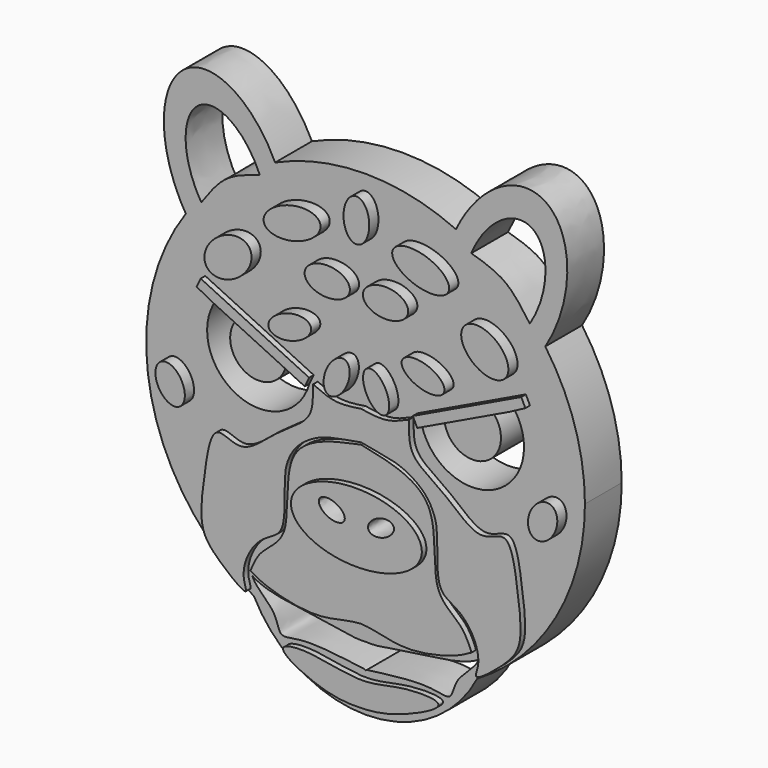
from build123d import *

# Parameters (mm, degrees)
F1_DEPTH  = 8
F4_DEPTH  = 2
F5_DEPTH  = 25.4
F7_DEPTH  = 1
F9_DEPTH  = 25.4
F11_DEPTH = 1
F13_DEPTH = 1


with BuildPart() as f1:
    # F0 (on Front) → F1 (new body)
    with BuildSketch(Plane.XZ):
        with BuildLine():
            ThreePointArc((19.4302331656, -32.8815989196), (33.1725759623, -18.929176221), (38.1933699532, 0))
            ThreePointArc((38.1933699532, 0), (36.4277464928, 11.4783619841), (31.2941204762, 21.8954682984))
            ThreePointArc((31.2941204762, 21.8954682984), (24.3865251617, 29.39440251), (15.7411537956, 34.7987009178))
            ThreePointArc((15.7411537956, 34.7987009178), (0, 38.1933699532), (-15.7411537956, 34.7987009178))
            ThreePointArc((-15.7411537956, 34.7987009178), (-24.3865251617, 29.39440251), (-31.2941204762, 21.8954682984))
            ThreePointArc((-31.2941204762, 21.8954682984), (-37.3278955521, -8.0846596735), (-19.4302331656, -32.8815989196))
            ThreePointArc((-19.4302331656, -32.8815989196), (0, -38.1933699532), (19.4302331656, -32.8815989196))
        make_face()
        with BuildLine():
            ThreePointArc((15.7411537956, 34.7987009178), (24.3865251617, 29.39440251), (31.2941204762, 21.8954682984))
            add(Edge.make_bspline(
                [(31.2941204762, 21.8954682984), (40.3605239397, 36.6317380546), (31.850195279, 43.692175631), (23.3398666184, 50.7526132074), (15.7411537956, 34.7987009178)],
                knots=[4.4330643288, 4.4330643288, 4.4330643288, 6.0901978392, 6.0901978392, 7.7473313495, 7.7473313495, 7.7473313495], degree=2, weights=[1, 0.6759327029, 1, 0.6759327029, 1]))
        make_face()
        with BuildLine():
            ThreePointArc((-19.4302331656, -32.8815989196), (0, -44.7301043372), (19.4302331656, -32.8815989196))
            ThreePointArc((19.4302331656, -32.8815989196), (0, -38.1933699532), (-19.4302331656, -32.8815989196))
        make_face()
        with BuildLine():
            ThreePointArc((-31.2941204762, 21.8954682984), (-24.3865251617, 29.39440251), (-15.7411537956, 34.7987009178))
            add(Edge.make_bspline(
                [(-15.7411537956, 34.7987009178), (-23.3398666184, 50.7526132074), (-31.850195279, 43.692175631), (-40.3605239397, 36.6317380546), (-31.2941204762, 21.8954682984)],
                knots=[4.8190392648, 4.8190392648, 4.8190392648, 6.4761727752, 6.4761727752, 8.1333062855, 8.1333062855, 8.1333062855], degree=2, weights=[1, 0.6759327029, 1, 0.6759327029, 1]))
        make_face()
    extrude(amount=F1_DEPTH)

    # F3 (on face) → F4 (join)
    with BuildSketch(Plane.XZ.offset(8)):
        with BuildLine():
            add(Edge.make_bspline(
                [(-6.2969359569, 29.2812623084), (-7.6255973602, 33.6296094329), (-14.3097768624, 29.2100581214), (-20.9939563647, 24.7905068099), (-12.9811154592, 24.8617109969), (-4.9682745537, 24.9329151838), (-6.2969359569, 29.2812623084)],
                knots=[0, 0, 0, 2.0943951024, 2.0943951024, 4.1887902048, 4.1887902048, 6.2831853072, 6.2831853072, 6.2831853072], degree=2, weights=[1, 0.5, 1, 0.5, 1, 0.5, 1]))
        make_face()
        with BuildLine():
            add(Edge.make_bspline(
                [(-9.0186065063, 20.844085142), (-9.0186065063, 16.5785358451), (-3.0989733059, 18.7113104936), (2.8206598945, 20.844085142), (-3.0989733059, 22.9768597905), (-9.0186065063, 25.1096344389), (-9.0186065063, 20.844085142)],
                knots=[0, 0, 0, 2.0943951024, 2.0943951024, 4.1887902048, 4.1887902048, 6.2831853072, 6.2831853072, 6.2831853072], degree=2, weights=[1, 0.5, 1, 0.5, 1, 0.5, 1]))
        make_face()
        with BuildLine():
            add(Edge.make_bspline(
                [(-18.6805371195, 21.6605849564), (-21.8546852465, 25.945685471), (-25.7789919151, 19.7206314851), (-29.7032985836, 13.4955774993), (-22.604843788, 15.4355309706), (-15.5063889925, 17.3754844418), (-18.6805371195, 21.6605849564)],
                knots=[0, 0, 0, 2.0943951024, 2.0943951024, 4.1887902048, 4.1887902048, 6.2831853072, 6.2831853072, 6.2831853072], degree=2, weights=[1, 0.5, 1, 0.5, 1, 0.5, 1]))
        make_face()
        with BuildLine():
            add(Edge.make_bspline(
                [(-7.929937914, 12.9512418061), (-9.036532859, 16.2710241167), (-13.9946175156, 12.7740041881), (-18.9527021721, 9.2769842595), (-12.8880225706, 9.4542218775), (-6.823342969, 9.6314594956), (-7.929937914, 12.9512418061)],
                knots=[0, 0, 0, 2.0943951024, 2.0943951024, 4.1887902048, 4.1887902048, 6.2831853072, 6.2831853072, 6.2831853072], degree=2, weights=[1, 0.5, 1, 0.5, 1, 0.5, 1]))
        make_face()
        with BuildLine():
            add(Edge.make_bspline(
                [(-1.9422633341, 9.8213199526), (-4.9083641623, 11.239890053), (-5.6706920213, 5.8357236195), (-6.4330198802, 0.4315571859), (-2.704591193, 4.4171535191), (1.0238374942, 8.4027498522), (-1.9422633341, 9.8213199526)],
                knots=[0, 0, 0, 2.0943951024, 2.0943951024, 4.1887902048, 4.1887902048, 6.2831853072, 6.2831853072, 6.2831853072], degree=2, weights=[1, 0.5, 1, 0.5, 1, 0.5, 1]))
        make_face()
        with BuildLine():
            add(Edge.make_bspline(
                [(0, 28.1925909221), (3.881293028, 28.1925909221), (1.940646514, 33.7039772421), (0, 39.2153635621), (-1.940646514, 33.7039772421), (-3.881293028, 28.1925909221), (0, 28.1925909221)],
                knots=[0, 0, 0, 2.0943951024, 2.0943951024, 4.1887902048, 4.1887902048, 6.2831853072, 6.2831853072, 6.2831853072], degree=2, weights=[1, 0.5, 1, 0.5, 1, 0.5, 1]))
        make_face()
        with BuildLine():
            add(Edge.make_bspline(
                [(-33.9218862355, -0.7931939908), (-37.514096548, -2.5892944328), (-33.4726192305, -6.1820003214), (-29.4311419129, -9.77470621), (-29.8804089179, -4.3858998794), (-30.3296759229, 1.0029064511), (-33.9218862355, -0.7931939908)],
                knots=[0, 0, 0, 2.0943951024, 2.0943951024, 4.1887902048, 4.1887902048, 6.2831853072, 6.2831853072, 6.2831853072], degree=2, weights=[1, 0.5, 1, 0.5, 1, 0.5, 1]))
        make_face()
        with BuildLine():
            add(Edge.make_bspline(
                [(11.3939205185, -15.2180464938), (11.3939205185, -4.7916943501), (-5.6969602592, -10.004870422), (-22.7878410369, -15.2180464938), (-5.6969602592, -20.4312225657), (11.3939205185, -25.6443986375), (11.3939205185, -15.2180464938)],
                knots=[0, 0, 0, 2.0943951024, 2.0943951024, 4.1887902048, 4.1887902048, 6.2831853072, 6.2831853072, 6.2831853072], degree=2, weights=[1, 0.5, 1, 0.5, 1, 0.5, 1]))
        make_face()
        with BuildLine():
            add(Edge.make_bspline(
                [(1.9422633341, 9.8213199526), (-1.0238374942, 8.4027498522), (2.704591193, 4.4171535191), (6.4330198802, 0.4315571859), (5.6706920213, 5.8357236195), (4.9083641623, 11.239890053), (1.9422633341, 9.8213199526)],
                knots=[0, 0, 0, 2.0943951024, 2.0943951024, 4.1887902048, 4.1887902048, 6.2831853072, 6.2831853072, 6.2831853072], degree=2, weights=[1, 0.5, 1, 0.5, 1, 0.5, 1]))
        make_face()
        with BuildLine():
            add(Edge.make_bspline(
                [(7.929937914, 12.9512418061), (6.823342969, 9.6314594956), (12.8880225706, 9.4542218775), (18.9527021721, 9.2769842595), (13.9946175156, 12.7740041881), (9.036532859, 16.2710241167), (7.929937914, 12.9512418061)],
                knots=[0, 0, 0, 2.0943951024, 2.0943951024, 4.1887902048, 4.1887902048, 6.2831853072, 6.2831853072, 6.2831853072], degree=2, weights=[1, 0.5, 1, 0.5, 1, 0.5, 1]))
        make_face()
        with BuildLine():
            add(Edge.make_bspline(
                [(18.6805371195, 21.6605849564), (15.5063889925, 17.3754844418), (22.604843788, 15.4355309706), (29.7032985836, 13.4955774993), (25.7789919151, 19.7206314851), (21.8546852465, 25.945685471), (18.6805371195, 21.6605849564)],
                knots=[0, 0, 0, 2.0943951024, 2.0943951024, 4.1887902048, 4.1887902048, 6.2831853072, 6.2831853072, 6.2831853072], degree=2, weights=[1, 0.5, 1, 0.5, 1, 0.5, 1]))
        make_face()
        with BuildLine():
            add(Edge.make_bspline(
                [(6.2969359569, 29.2812623084), (4.9682745537, 24.9329151838), (12.9811154592, 24.8617109969), (20.9939563647, 24.7905068099), (14.3097768624, 29.2100581214), (7.6255973602, 33.6296094329), (6.2969359569, 29.2812623084)],
                knots=[0, 0, 0, 2.0943951024, 2.0943951024, 4.1887902048, 4.1887902048, 6.2831853072, 6.2831853072, 6.2831853072], degree=2, weights=[1, 0.5, 1, 0.5, 1, 0.5, 1]))
        make_face()
        with BuildLine():
            add(Edge.make_bspline(
                [(9.0186065063, 20.844085142), (9.0186065063, 25.1096344389), (3.0989733059, 22.9768597905), (-2.8206598945, 20.844085142), (3.0989733059, 18.7113104936), (9.0186065063, 16.5785358451), (9.0186065063, 20.844085142)],
                knots=[0, 0, 0, 2.0943951024, 2.0943951024, 4.1887902048, 4.1887902048, 6.2831853072, 6.2831853072, 6.2831853072], degree=2, weights=[1, 0.5, 1, 0.5, 1, 0.5, 1]))
        make_face()
        with BuildLine():
            add(Edge.make_bspline(
                [(33.9218862355, -0.7931939908), (30.3296759229, 1.0029064511), (29.8804089179, -4.3858998794), (29.4311419129, -9.77470621), (33.4726192305, -6.1820003214), (37.514096548, -2.5892944328), (33.9218862355, -0.7931939908)],
                knots=[0, 0, 0, 2.0943951024, 2.0943951024, 4.1887902048, 4.1887902048, 6.2831853072, 6.2831853072, 6.2831853072], degree=2, weights=[1, 0.5, 1, 0.5, 1, 0.5, 1]))
        make_face()
    extrude(amount=F4_DEPTH)

    # F2 (on face) → F5 (cut)
    with BuildSketch(Plane.XZ.offset(8)):
        with BuildLine():
            ThreePointArc((-25.8884229802, 10.5301473967), (-22.4417922533, -2.9278959576), (-9.7933178667, 2.8179103381))
            Line((-9.7933178667, 2.8179103381), (-13.758715219, 4.7179963703))
            ThreePointArc((-13.758715219, 4.7179963703), (-20.7754875289, 0.9199741997), (-22.2116822744, 8.7683759932))
            Line((-22.2116822744, 8.7683759932), (-25.8884229802, 10.5301473967))
        make_face()
        with BuildLine():
            Line((13.758715219, 4.7179963703), (9.7933178667, 2.8179103381))
            ThreePointArc((9.7933178667, 2.8179103381), (22.4417922533, -2.9278959576), (25.8884229802, 10.5301473967))
            Line((25.8884229802, 10.5301473967), (22.2116822744, 8.7683759932))
            ThreePointArc((22.2116822744, 8.7683759932), (20.7754875289, 0.9199741997), (13.758715219, 4.7179963703))
        make_face()
        with BuildLine():
            add(Edge.make_bspline(
                [(0, -33.5337286461), (-0.5117889214, -33.5820420896), (-2.2892837497, -33.5950672145), (-9.4948357575, -32.2086120313), (-17.4041987883, -31.4390857588), (-19.7024513036, -29.8438593745)],
                knots=[0.02157289, 0.02157289, 0.02157289, 0.02157289, 0.1916574935, 0.5633836295, 1, 1, 1, 1], degree=3))
            add(Edge.make_bspline(
                [(-19.7024513036, -29.8438593745), (-19.1613185213, -31.3917774838), (-15.3986287574, -33.7086590944), (-15.179986804, -38.0958945217), (-10.760622347, -36.1705359254), (-0.7983988614, -37.7901744478), (-0.1772296354, -37.7664662096), (0, -37.9867340466)],
                knots=[0, 0, 0, 0, 0.2348719301, 0.4085473791, 0.6031871126, 0.9133494863, 1, 1, 1, 1], degree=3))
            add(Edge.make_bspline(
                [(19.7024513036, -29.8438593745), (19.1613185213, -31.3917774838), (15.3986287574, -33.7086590944), (15.179986804, -38.0958945217), (10.760622347, -36.1705359254), (0.7983988614, -37.7901744478), (0.1772296354, -37.7664662096), (0, -37.9867340466)],
                knots=[0, 0, 0, 0, 0.2348719301, 0.4085473791, 0.6031871126, 0.9133494863, 1, 1, 1, 1], degree=3))
            add(Edge.make_bspline(
                [(0, -33.5337286461), (0.5117889214, -33.5820420896), (2.2892837497, -33.5950672145), (9.4948357575, -32.2086120313), (17.4041987883, -31.4390857588), (19.7024513036, -29.8438593745)],
                knots=[0.02157289, 0.02157289, 0.02157289, 0.02157289, 0.1916574935, 0.5633836295, 1, 1, 1, 1], degree=3))
        make_face()
        with BuildLine():
            add(Edge.make_bspline(
                [(-28.5962401222, 24.5068085028), (-27.2587661974, 26.4076428792), (-24.6215516127, 30.14897385), (-20.4504478376, 31.3840903193), (-18.4008220853, 31.9910344598)],
                knots=[0, 0, 0, 0, 0.5086439165, 1, 1, 1, 1], degree=3))
            add(Edge.make_bspline(
                [(-18.4008220853, 31.9910344598), (-23.2304653623, 43.495386171), (-29.1389304784, 39.1581154649), (-35.0473955944, 34.8208447589), (-28.5962401222, 24.5068085028)],
                knots=[4.7123889804, 4.7123889804, 4.7123889804, 6.4208390286, 6.4208390286, 8.1292890767, 8.1292890767, 8.1292890767], degree=2, weights=[1, 0.6568030869, 1, 0.6568030869, 1]))
        make_face()
        with BuildLine():
            add(Edge.make_bspline(
                [(28.5962401222, 24.5068085028), (27.2587661974, 26.4076428792), (24.6215516127, 30.14897385), (20.4504478376, 31.3840903193), (18.4008220853, 31.9910344598)],
                knots=[0, 0, 0, 0, 0.5086439165, 1, 1, 1, 1], degree=3))
            add(Edge.make_bspline(
                [(28.5962401222, 24.5068085028), (35.0473955944, 34.8208447589), (29.1389304784, 39.1581154649), (23.2304653623, 43.495386171), (18.4008220853, 31.9910344598)],
                knots=[4.4370815376, 4.4370815376, 4.4370815376, 6.1455315858, 6.1455315858, 7.853981634, 7.853981634, 7.853981634], degree=2, weights=[1, 0.6568030869, 1, 0.6568030869, 1]))
        make_face()
    extrude(amount=-F5_DEPTH, mode=Mode.SUBTRACT)

    # F6 (on face) → F7 (join)
    with BuildSketch(Plane.XZ.offset(8)):
        Polygon((-13.758715219, 4.7179963703), (-9.7933178667, 2.8179103381), (-9.0301641026, 4.4105792302), (-27.9095187778, 13.4569357306), (-28.6194353784, 11.9753704959), (-25.8884229802, 10.5301473967), align=None)
        Polygon((13.758715219, 4.7179963703), (25.8884229802, 10.5301473967), (28.6194353784, 11.9753704959), (27.9095187778, 13.4569357306), (9.0301641026, 4.4105792302), (9.7933178667, 2.8179103381), align=None)
        with BuildLine():
            add(Edge.make_bspline(
                [(0, -2.9173827985), (4.9800627713, -3.933437551), (14.6075819795, -6.0123611762), (11.5328103482, -21.4681114995), (17.3852233746, -24.3363406872), (18.7513497747, -27.2254355771), (19.2414410412, -28.5356938839)],
                knots=[0, 0, 0, 0, 0.3035770581, 0.5999740227, 0.8040217662, 0.9517997462, 0.9517997462, 0.9517997462, 0.9517997462], degree=3))
            add(Edge.make_bspline(
                [(0, -2.9173827985), (-4.9800627713, -3.933437551), (-14.6075819795, -6.0123611762), (-11.5328103482, -21.4681114995), (-17.3852233746, -24.3363406872), (-18.7513497747, -27.2254355771), (-19.2414410412, -28.5356938839)],
                knots=[0, 0, 0, 0, 0.3035770581, 0.5999740227, 0.8040217662, 0.9517997462, 0.9517997462, 0.9517997462, 0.9517997462], degree=3))
            add(Edge.make_bspline(
                [(0, -30.3769279271), (-2.5023944072, -30.2699397807), (-8.2063772363, -31.9469605784), (-15.3474970422, -29.7394278821), (-19.2414410412, -28.5356938839)],
                knots=[0.5480424845, 0.5480424845, 0.5480424845, 0.5480424845, 0.753554442, 1, 1, 1, 1], degree=3))
            add(Edge.make_bspline(
                [(0, -30.3769279271), (2.5023944072, -30.2699397807), (8.2063772363, -31.9469605784), (15.3474970422, -29.7394278821), (19.2414410412, -28.5356938839)],
                knots=[0.5480424845, 0.5480424845, 0.5480424845, 0.5480424845, 0.753554442, 1, 1, 1, 1], degree=3))
        make_face()
        with BuildLine():
            add(Edge.make_bspline(
                [(0, -30.3769279271), (-2.5023944072, -30.2699397807), (-8.2063772363, -31.9469605784), (-15.3474970422, -29.7394278821), (-19.2414410412, -28.5356938839)],
                knots=[0.5480424845, 0.5480424845, 0.5480424845, 0.5480424845, 0.753554442, 1, 1, 1, 1], degree=3))
            add(Edge.make_bspline(
                [(-19.2414410412, -28.5356938839), (-18.4437272404, -28.9942779025), (-16.323377905, -30.2132092009), (-7.3643495568, -32.4368657843), (-2.4590106417, -30.4820612306), (0, -30.3769279271)],
                knots=[0, 0, 0, 0, 0.1302066272, 0.3460934676, 0.5480424845, 0.5480424845, 0.5480424845, 0.5480424845], degree=3))
        make_face()
        with BuildLine():
            add(Edge.make_bspline(
                [(19.2414410412, -28.5356938839), (18.4437272404, -28.9942779025), (16.323377905, -30.2132092009), (7.3643495568, -32.4368657843), (2.4590106417, -30.4820612306), (0, -30.3769279271)],
                knots=[0, 0, 0, 0, 0.1302066272, 0.3460934676, 0.5480424845, 0.5480424845, 0.5480424845, 0.5480424845], degree=3))
            add(Edge.make_bspline(
                [(0, -30.3769279271), (2.5023944072, -30.2699397807), (8.2063772363, -31.9469605784), (15.3474970422, -29.7394278821), (19.2414410412, -28.5356938839)],
                knots=[0.5480424845, 0.5480424845, 0.5480424845, 0.5480424845, 0.753554442, 1, 1, 1, 1], degree=3))
        make_face()
    extrude(amount=F7_DEPTH)

    # F8 (on face) → F9 (cut)
    with BuildSketch(Plane.XZ.offset(10)):
        with BuildLine():
            add(Edge.make_bspline(
                [(-6.4772795886, -12.9718929529), (-7.4402584864, -15.2188440323), (-3.667892757, -15.5057438419), (0.1044729725, -15.7926436514), (-2.7049138592, -13.2587927624), (-5.5143006908, -10.7249418735), (-6.4772795886, -12.9718929529)],
                knots=[0, 0, 0, 2.0943951024, 2.0943951024, 4.1887902048, 4.1887902048, 6.2831853072, 6.2831853072, 6.2831853072], degree=2, weights=[1, 0.5, 1, 0.5, 1, 0.5, 1]))
        make_face()
        with BuildLine():
            add(Edge.make_bspline(
                [(6.4772795886, -12.9718929529), (5.5143006908, -10.7249418735), (2.7049138592, -13.2587927624), (-0.1044729725, -15.7926436514), (3.667892757, -15.5057438419), (7.4402584864, -15.2188440323), (6.4772795886, -12.9718929529)],
                knots=[0, 0, 0, 2.0943951024, 2.0943951024, 4.1887902048, 4.1887902048, 6.2831853072, 6.2831853072, 6.2831853072], degree=2, weights=[1, 0.5, 1, 0.5, 1, 0.5, 1]))
        make_face()
    extrude(amount=-F9_DEPTH, mode=Mode.SUBTRACT)

    # F10 (on face) → F11 (join)
    with BuildSketch(Plane.XZ.offset(8)):
        with BuildLine():
            add(Edge.make_bspline(
                [(-8.3329668269, 3.6142447841), (-7.0698120164, 3.0426928752), (-4.4896842122, 1.875237422), (-1.517228618, 2.3471303029), (0, 2.5879982859)],
                knots=[0, 0, 0, 0, 0.4895706362, 1, 1, 1, 1], degree=3))
            add(Edge.make_bspline(
                [(-8.3329668269, 3.6142447841), (-8.3661442968, 2.0129728457), (-8.0513697892, -2.146167362), (-14.7135297625, -5.3166682295), (-20.5558410437, -11.6529882759), (-25.9381039484, -7.1842808958), (-27.281398031, -16.4936054855), (-28.3074882995, -24.3175403445), (-25.7178040848, -28.1316629061), (-19.1642528076, -33.2715806956), (-20.7616391778, -29.9518988153), (-20.0042111692, -26.1818833915), (-17.309050553, -22.7211582607), (-13.9341289021, -21.446693059), (-13.1388000864, -17.8795740445), (-13.4076174679, -11.5946352702), (-12.6687572525, -9.1631110391), (-11.1441797438, -6.370655121), (-7.0988875357, -3.8143886703), (-3.4363447357, -3.1913897114), (-1.1202716939, -2.7661322262), (0, -2.5603750255)],
                knots=[0, 0, 0, 0, 0.0549402412, 0.1202732565, 0.188727799, 0.2378423139, 0.3035584611, 0.3738133508, 0.4287531887, 0.4891882325, 0.5210693557, 0.570202211, 0.6211650404, 0.6652978124, 0.710612083, 0.7721807323, 0.8112902925, 0.8537249005, 0.9067806053, 0.9544108351, 1, 1, 1, 1], degree=3))
            add(Edge.make_bspline(
                [(8.3329668269, 3.6142447841), (8.3661442968, 2.0129728457), (8.0513697892, -2.146167362), (14.7135297625, -5.3166682295), (20.5558410437, -11.6529882759), (25.9381039484, -7.1842808958), (27.281398031, -16.4936054855), (28.3074882995, -24.3175403445), (25.7178040848, -28.1316629061), (19.1642528076, -33.2715806956), (20.7616391778, -29.9518988153), (20.0042111692, -26.1818833915), (17.309050553, -22.7211582607), (13.9341289021, -21.446693059), (13.1388000864, -17.8795740445), (13.4076174679, -11.5946352702), (12.6687572525, -9.1631110391), (11.1441797438, -6.370655121), (7.0988875357, -3.8143886703), (3.4363447357, -3.1913897114), (1.1202716939, -2.7661322262), (0, -2.5603750255)],
                knots=[0, 0, 0, 0, 0.0549402412, 0.1202732565, 0.188727799, 0.2378423139, 0.3035584611, 0.3738133508, 0.4287531887, 0.4891882325, 0.5210693557, 0.570202211, 0.6211650404, 0.6652978124, 0.710612083, 0.7721807323, 0.8112902925, 0.8537249005, 0.9067806053, 0.9544108351, 1, 1, 1, 1], degree=3))
            add(Edge.make_bspline(
                [(8.3329668269, 3.6142447841), (7.0698120164, 3.0426928752), (4.4896842122, 1.875237422), (1.517228618, 2.3471303029), (0, 2.5879982859)],
                knots=[0, 0, 0, 0, 0.4895706362, 1, 1, 1, 1], degree=3))
        make_face()
    extrude(amount=F11_DEPTH)

    # F12 (on face) → F13 (join)
    with BuildSketch(Plane.XZ.offset(8)):
        with BuildLine():
            add(Edge.make_bspline(
                [(-13.5780749843, -38.6378020048), (-13.5864659137, -37.9229314894), (-8.7142794377, -37.2419319939), (0.2154680493, -39.9179519514), (6.762693928, -37.4895496394), (16.9367740414, -37.6973467046), (5.9710973128, -42.7691673932), (0.0686462096, -43.4600043064), (-6.5665382199, -43.1516016446), (-13.5667332928, -39.6040645521), (-13.5780749843, -38.6378020048)],
                knots=[0, 0, 0, 0, 0.0952873743, 0.2427828231, 0.3762066376, 0.4887281849, 0.6201657694, 0.7438859258, 0.8712037789, 1, 1, 1, 1], degree=3))
        make_face()
    extrude(amount=F13_DEPTH)


solid = f1.part
